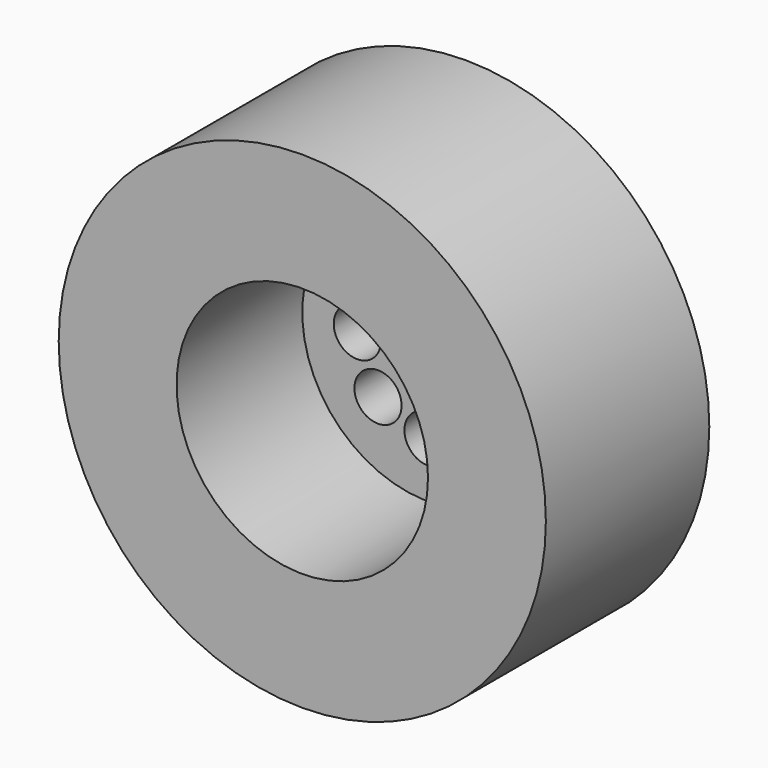
from build123d import *

# Parameters (mm, degrees)
F0_R     = 19.685
F2_DEPTH = 16.51
F1_R     = 10.16
F3_DEPTH = 12.7
F4_R     = 1.905
F5_DEPTH = 25.4
F6_R     = 18.415
F6_R_2   = 10.31875
F7_DEPTH = 15.24
F8_R     = 3.175
F8_R_2   = 1.905
F9_DEPTH = 8.89


with BuildPart() as f2:
    # F0 (on Front) → F2 (new body)
    with BuildSketch(Plane.XZ):
        Circle(F0_R)
    extrude(amount=-F2_DEPTH)

    # F1 (on face) → F3 (cut)
    with BuildSketch(Plane.XZ):
        Circle(F1_R)
    extrude(amount=-F3_DEPTH, mode=Mode.SUBTRACT)

    # F4 (on face) → F5 (cut)
    with BuildSketch(Plane.XZ.offset(-12.7)):
        with Locations((0, 5.715)):
            Circle(F4_R)
        with Locations((4.041115, 4.041115)):
            Circle(F4_R)
        with Locations((5.715, 0)):
            Circle(F4_R)
        with Locations((4.041115, -4.041115)):
            Circle(F4_R)
        with Locations((0, -5.715)):
            Circle(F4_R)
        with Locations((-4.041115, -4.041115)):
            Circle(F4_R)
        with Locations((-4.041115, 4.041115)):
            Circle(F4_R)
        with Locations((-5.715, 0)):
            Circle(F4_R)
    extrude(amount=-F5_DEPTH, mode=Mode.SUBTRACT)

    # F6 (on face) → F7 (cut)
    with BuildSketch(Plane(origin=(0, 16.51, 0), x_dir=(-1, 0, 0), z_dir=(0, 1, 0))):
        Circle(F6_R)
        Circle(F6_R_2, mode=Mode.SUBTRACT)
    extrude(amount=-F7_DEPTH, mode=Mode.SUBTRACT)

    # F8 (on face) → F9 (join)
    with BuildSketch(Plane(origin=(0, 16.51, 0), x_dir=(-1, 0, 0), z_dir=(0, 1, 0))):
        Circle(F8_R)
        Circle(F8_R_2, mode=Mode.SUBTRACT)
    extrude(amount=F9_DEPTH)


solid = f2.part
